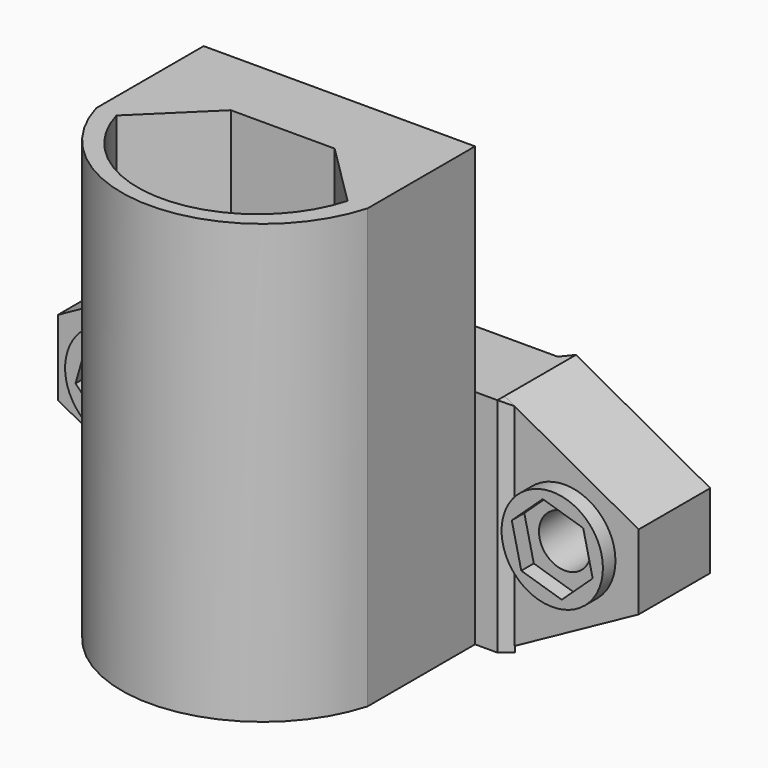
from build123d import *

# Parameters (mm, degrees)
F1_DEPTH  = 20.32
F3_DEPTH  = 53.848
F5_DEPTH  = 25.4
F7_DEPTH  = 54.356
F8_R      = 11.508682
F8_R_2    = 11.649308
F9_DEPTH  = 3.556
F10_R     = 5.689176
F10_R_2   = 5.902235
F11_DEPTH = 29.972
F13_DEPTH = 99.568
F14_W     = 23.597419
F14_H     = 13.089193
F14_H_2   = 14.010968
F15_DEPTH = 18.034
F17_DEPTH = 99.568


with BuildPart() as f1:
    # F0 (on Front) → F1 (new body)
    with BuildSketch(Plane.XZ):
        Polygon((0, 0), (-70.953442, 0), (-101.433442, -16.739016), (-101.433442, -33.727869), (-70.953442, -50.466886), (0, -50.466886), (30.48, -33.727869), (30.48, -16.739016), align=None)
    extrude(amount=F1_DEPTH)

    # F2 (on face) → F3 (join)
    with BuildSketch(Plane(origin=(0, 0, -50.466886), x_dir=(1, 0, 0), z_dir=(0, 0, -1))):
        Polygon((-73.638171, 20.32), (2.316022, 20.279033), (0, 22.306934), (-71.794622, 22.306934), align=None)
    extrude(amount=-F3_DEPTH)

    # F4 (on face) → F5 (cut)
    with BuildSketch(Plane(origin=(0.010938, -20.280276, 0), x_dir=(-1, -0.000539, 0), z_dir=(-0.000539, 1, 0))):
        Polygon((70.964391, 0), (73.64912, -1.4744), (73.64912, 3.381114), (-2.305084, 3.381114), (-2.305084, -1.271914), (0.010938, 0), align=None)
    extrude(amount=-F5_DEPTH, mode=Mode.SUBTRACT)

    # F6 (on face) → F7 (cut)
    with BuildSketch(Plane.XY):
        Polygon((-2.108495, -2.580968), (0, 0), (-70.953442, 0), (-68.660595, -2.580968), (-41.376077, -2.580968), (-39.716881, -4.424516), (-34.186237, -4.424516), (-31.973977, -2.580968), align=None)
    extrude(amount=-F7_DEPTH, mode=Mode.SUBTRACT)

    # F8 (on face) → F9 (join)
    with BuildSketch(Plane.XZ.offset(20.32)):
        with Locations((13.702015, -24.732648)):
            Circle(F8_R)
        Polygon((4.514804, -21.914458), (11.549033, -15.367195), (20.736244, -18.185385), (22.889225, -27.550837), (15.854996, -34.0981), (6.667786, -31.279911), align=None, mode=Mode.SUBTRACT)
        with Locations((-85.277705, -24.443241)):
            Circle(F8_R_2)
        Polygon((-94.556486, -26.755789), (-91.919821, -17.563855), (-82.641039, -15.251307), (-75.998923, -22.130693), (-78.635589, -31.322628), (-87.91437, -33.635176), align=None, mode=Mode.SUBTRACT)
    extrude(amount=F9_DEPTH)

    # F10 (on face) → F11 (cut)
    with BuildSketch(Plane.XZ.offset(20.32)):
        with Locations((-85.302033, -24.321858)):
            Circle(F10_R)
        with Locations((13.746024, -24.519194)):
            Circle(F10_R_2)
    extrude(amount=-F11_DEPTH, mode=Mode.SUBTRACT)

    # F12 (on face) → F13 (join)
    with BuildSketch(Plane(origin=(0, 0, -50.466886), x_dir=(1, 0, 0), z_dir=(0, 0, -1))):
        Polygon((-66.714622, 52.786934), (-66.714622, 22.306934), (-5.08, 22.306934), (-5.08, 52.786934), (-9.652, 52.786934), (-23.981169, 38.53016), (-47.578588, 38.53016), (-62.142622, 52.786934), align=None)
    extrude(amount=-F13_DEPTH)

    # F14 (on face) → F15 (cut)
    with BuildSketch(Plane.XZ.offset(38.53016)):
        with Locations((-35.779878, -35.672662)):
            Rectangle(F14_W, F14_H)
        with Locations((-35.779878, -14.010968)):
            Rectangle(F14_W, F14_H_2)
    extrude(amount=-F15_DEPTH, mode=Mode.SUBTRACT)

    # F16 (on face) → F17 (join)
    with BuildSketch(Plane(origin=(0, 0, -50.466886), x_dir=(1, 0, 0), z_dir=(0, 0, -1))):
        with BuildLine():
            Line((-9.652, 52.786934), (-5.08, 52.786934))
            ThreePointArc((-5.08, 52.786934), (-35.897311, 76.1177), (-66.714622, 52.786934))
            Line((-66.714622, 52.786934), (-62.142622, 52.786934))
            ThreePointArc((-62.142622, 52.786934), (-35.897311, 72.694804), (-9.652, 52.786934))
        make_face()
    extrude(amount=-F17_DEPTH)


solid = f1.part
